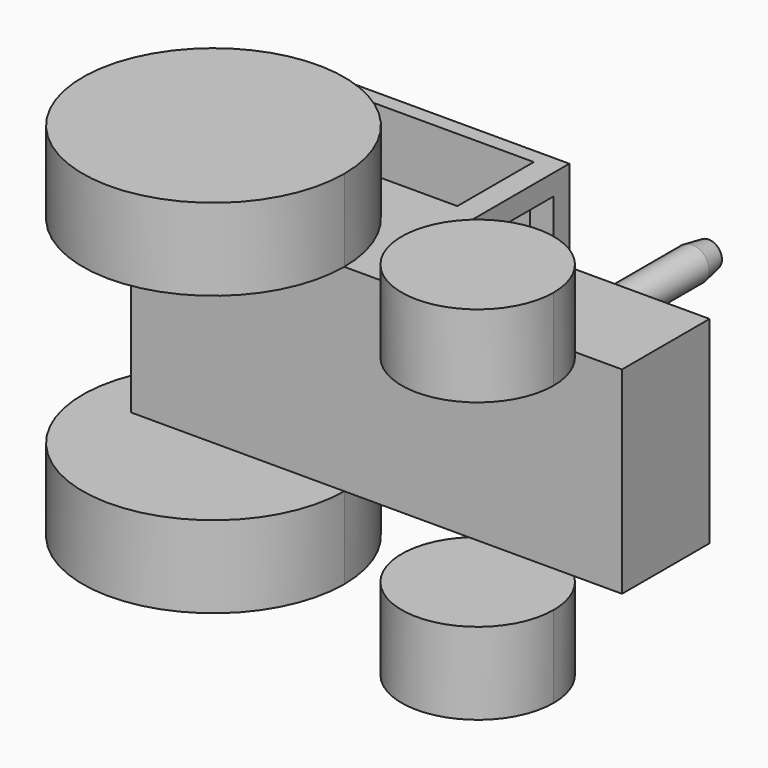
from build123d import *

# Parameters (mm, degrees)
F1_DEPTH  = 18.753305
F3_DEPTH  = 15.54585
F5_W      = 37.2849525884
F5_H      = 18.1331187487
F6_DEPTH  = 53.05346
F7_W      = 16.7898200452
F7_H      = 29.3058659881
F8_DEPTH  = 55.0196293017
F9_R      = 3.2034431946
F10_DEPTH = 25
F11_R     = 3.2034431946
F13_DEPTH = 3.90451
F13_TAPER = 10
F14_W     = 25.0537479296
F14_H     = 24.4980249554
F18_DEPTH = 12.2033338994
F16_R     = 2.0640703288
F17_DEPTH = 34.12419


with BuildPart() as f1:
    # F0 (on Top) → F1 (new body, symmetric)
    with BuildSketch(Plane.XY):
        Polygon((-5.5769230239, 51.2194294688), (-51.4608863181, 51.2194294688), (-51.4608863181, 4.5192311518), (-5.5769230239, 4.5192311518), (41.7920313589, 4.5192311518), (41.7920313589, 25.2884626389), (-5.5769230239, 25.2884626389), align=None)
    extrude(amount=F1_DEPTH, both=True)

    # F2 (on face) → F3 (join)
    with BuildSketch(Plane.XY.offset(18.753305)):
        with BuildLine():
            ThreePointArc((-51.4608863181, 23.7576867202), (-46.417709158, -17.9074521958), (-10.9429109093, 4.5192311518))
            Line((-10.9429109093, 4.5192311518), (-51.4608863181, 4.5192311518))
            Line((-51.4608863181, 4.5192311518), (-51.4608863181, 23.7576867202))
        make_face()
        with BuildLine():
            Line((-51.4608863181, 4.5192311518), (-10.9429109093, 4.5192311518))
            ThreePointArc((-10.9429109093, 4.5192311518), (-25.1207540769, 26.9459144993), (-51.4608863181, 23.7576867202))
            Line((-51.4608863181, 23.7576867202), (-51.4608863181, 4.5192311518))
        make_face()
        with BuildLine():
            ThreePointArc((32.7010839123, 4.5192311518), (22.6923078299, 8.5573695546), (12.6835317475, 4.5192311518))
            Line((12.6835317475, 4.5192311518), (32.7010839123, 4.5192311518))
        make_face()
        with BuildLine():
            Line((32.7010839123, 4.5192311518), (12.6835317475, 4.5192311518))
            ThreePointArc((12.6835317475, 4.5192311518), (17.0504227911, -19.1388547133), (37.1150626747, -5.8653852902))
            ThreePointArc((37.1150626747, -5.8653852902), (35.9657772529, -0.2235002514), (32.7010839123, 4.5192311518))
        make_face()
    extrude(amount=F3_DEPTH)

    # F4: F1 across plane


with BuildPart() as f1_1:
    add(f1.part)
    add(f1.part.mirror(Plane.XY))

    # F5 (on face) → F6 (cut, through all)
    with BuildSketch(Plane.XY.offset(18.753305)):
        with Locations((-28.6624371074, 39.2740033567)):
            Rectangle(F5_W, F5_H)
    extrude(amount=-F6_DEPTH, mode=Mode.SUBTRACT)

    # F7 (on face) → F8 (cut, through all)
    with BuildSketch(Plane.YZ.offset(-5.5769230239)):
        with Locations((39.0934366733, 0.1526279375)):
            Rectangle(F7_W, F7_H)
    extrude(amount=-F8_DEPTH, mode=Mode.SUBTRACT)

    # F9 (on face) → F10 (join)
    with BuildSketch(Plane(origin=(0, 25.2884626389, 0), x_dir=(-1, 0, 0), z_dir=(0, 1, 0))):
        with Locations((-18.5051690787, 10.1850191131)):
            Circle(F9_R)
    extrude(amount=F10_DEPTH)

    # F11 (on face) → F13 (join)
    with BuildSketch(Plane(origin=(0, 50.2884626389, 0), x_dir=(-1, 0, 0), z_dir=(0, 1, 0))):
        with Locations((-18.5051690787, 10.1850191131)):
            Circle(F11_R)
    extrude(amount=F13_DEPTH, taper=F13_TAPER)

    # F14 (on face) → F18 (cut)
    with BuildSketch(Plane(origin=(0, 30.2074439824, 0), x_dir=(-1, 0, 0), z_dir=(0, 1, 0))):
        with Locations((26.7121638171, 0.3265431151)):
            Rectangle(F14_W, F14_H)
    extrude(amount=-F18_DEPTH, mode=Mode.SUBTRACT)

    # F16 (on face) → F17 (cut)
    with BuildSketch(Plane(origin=(0, 54.1929726389, 0), x_dir=(-1, 0, 0), z_dir=(0, 1, 0))):
        with Locations((-18.574340269, 10.1817082614)):
            Circle(F16_R)
    extrude(amount=-F17_DEPTH, mode=Mode.SUBTRACT)


solid = f1_1.part
